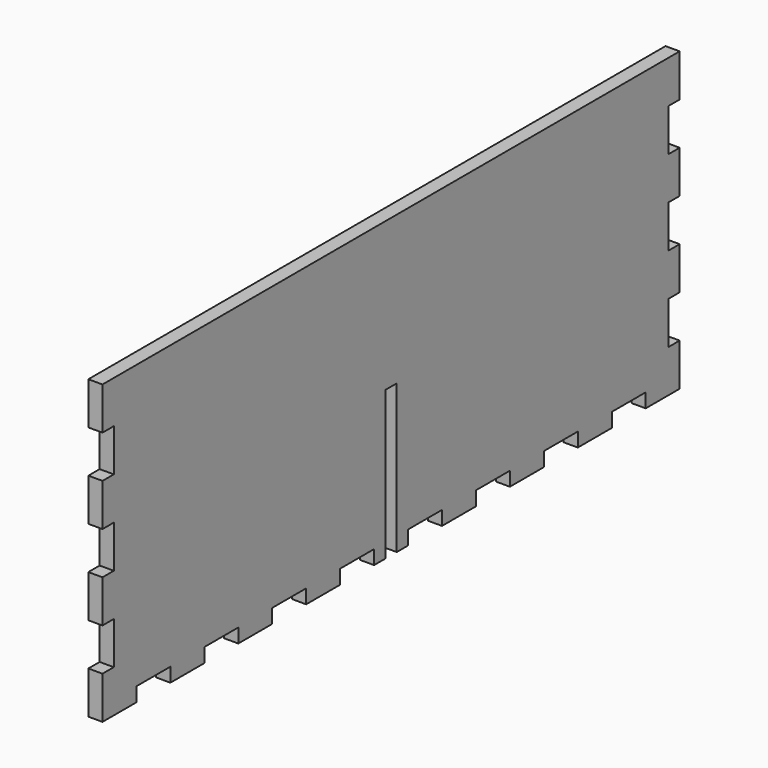
from build123d import *

# Parameters (mm, degrees)
F0_W     = 161.925
F0_H     = 66.675
F1_DEPTH = 3.175
F2_W     = 3.175
F2_H     = 9.525
F3_DEPTH = 3.176
F4_W     = 9.525
F4_H     = 3.175
F5_DEPTH = 3.176
F6_W     = 3.175
F6_H     = 33.3375
F7_DEPTH = 3.176


with BuildPart() as f1:
    # F0 (on Right) → F1 (new body)
    with BuildSketch(Plane.YZ):
        Rectangle(F0_W, F0_H)
    extrude(amount=F1_DEPTH)

    # F2 (on face) → F3 (cut, through all)
    with BuildSketch(Plane.YZ.offset(3.175)):
        with Locations((-79.375, -19.05)):
            Rectangle(F2_W, F2_H)
        with Locations((-79.375, 0)):
            Rectangle(F2_W, F2_H)
        with Locations((-79.375, 19.05)):
            Rectangle(F2_W, F2_H)
        with Locations((79.375, -19.05)):
            Rectangle(F2_W, F2_H)
        with Locations((79.375, 0)):
            Rectangle(F2_W, F2_H)
        with Locations((79.375, 19.05)):
            Rectangle(F2_W, F2_H)
    extrude(amount=-F3_DEPTH, mode=Mode.SUBTRACT)

    # F4 (on face) → F5 (cut, through all)
    with BuildSketch(Plane.YZ.offset(3.175)):
        with Locations((-66.675, -31.75)):
            Rectangle(F4_W, F4_H)
        with Locations((-47.625, -31.75)):
            Rectangle(F4_W, F4_H)
        with Locations((-28.575, -31.75)):
            Rectangle(F4_W, F4_H)
        with Locations((-9.525, -31.75)):
            Rectangle(F4_W, F4_H)
        with Locations((9.525, -31.75)):
            Rectangle(F4_W, F4_H)
        with Locations((28.575, -31.75)):
            Rectangle(F4_W, F4_H)
        with Locations((47.625, -31.75)):
            Rectangle(F4_W, F4_H)
        with Locations((66.675, -31.75)):
            Rectangle(F4_W, F4_H)
    extrude(amount=-F5_DEPTH, mode=Mode.SUBTRACT)

    # F6 (on face) → F7 (cut, through all)
    with BuildSketch(Plane.YZ.offset(3.175)):
        with Locations((0, -16.66875)):
            Rectangle(F6_W, F6_H)
    extrude(amount=-F7_DEPTH, mode=Mode.SUBTRACT)


solid = f1.part
